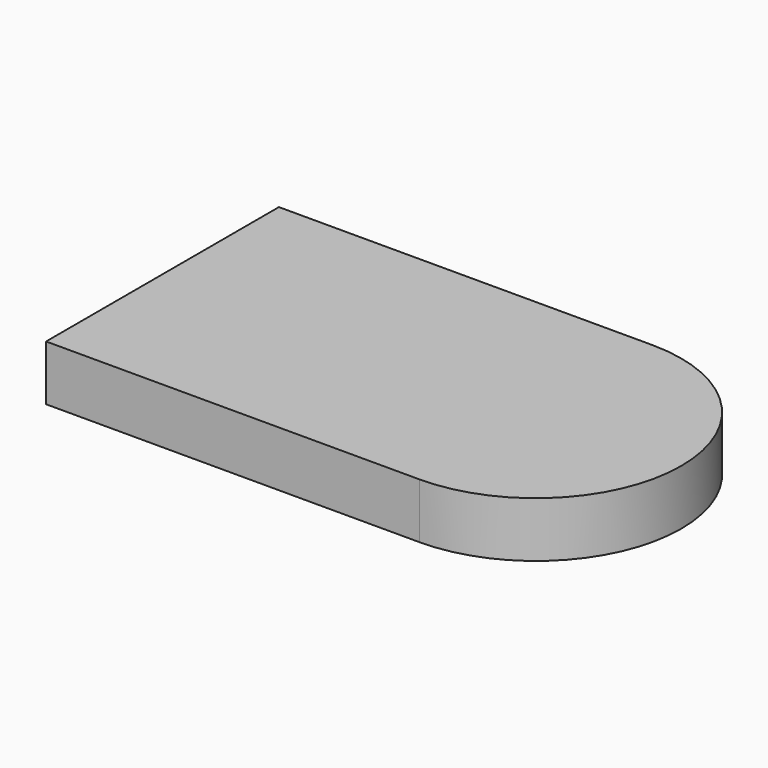
from build123d import *

# Parameters (mm, degrees)
F0_W     = 85.7403278351
F0_H     = 66.843137145
F1_DEPTH = 12.7
F2_T     = -10.16


with BuildPart() as f1:
    # F0 (on Top) → F1 (new body)
    with BuildSketch(Plane.XY):
        with BuildLine():
            ThreePointArc((34.9580943584, -19.3818807602), (68.379662931, 14.0396878123), (34.9580943584, 47.4612563848))
            Line((34.9580943584, 47.4612563848), (34.9580943584, -19.3818807602))
        make_face()
        with Locations((-7.9120695591, 14.0396878123)):
            Rectangle(F0_W, F0_H)
    extrude(amount=F1_DEPTH)

    # F2
    f2_openings = [f1.faces().sort_by_distance(p)[0] for p in [
        (5.460988, 14.039688, 0),
    ]]
    offset(amount=F2_T, openings=f2_openings)


solid = f1.part
